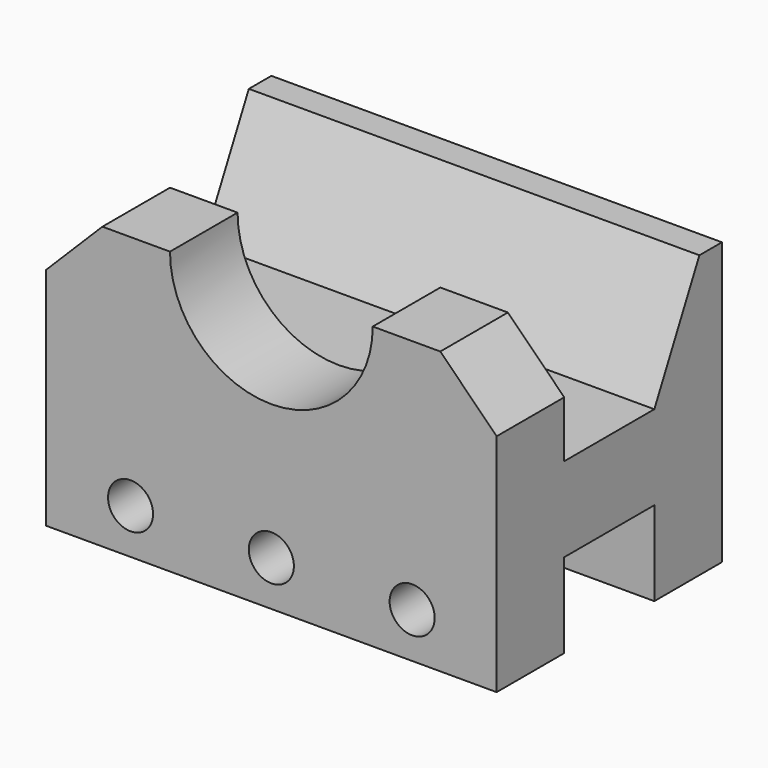
from build123d import *

# Parameters (mm, degrees)
F0_W      = 80
F0_H      = 50
F1_DEPTH  = 50
F2_W      = 20
F2_H      = 15
F3_DEPTH  = 80
F5_DEPTH  = 80
F7_DEPTH  = 25
F8_SIZE   = 10
F9_SIZE   = 10
F10_R     = 4
F11_DEPTH = 50


with BuildPart() as f1:
    # F0 (on Top) → F1 (new body)
    with BuildSketch(Plane.XY):
        with Locations((43.0323862381, 25)):
            Rectangle(F0_W, F0_H)
    extrude(amount=F1_DEPTH)

    # F2 (on face) → F3 (cut)
    with BuildSketch(Plane.YZ.offset(83.0323862381)):
        with Locations((25, 7.5)):
            Rectangle(F2_W, F2_H)
    extrude(amount=-F3_DEPTH, mode=Mode.SUBTRACT)

    # F4 (on face) → F5 (cut)
    with BuildSketch(Plane.YZ.offset(83.0323862381)):
        Polygon((45, 50), (15, 50), (15, 30), (35, 30), align=None)
    extrude(amount=-F5_DEPTH, mode=Mode.SUBTRACT)

    # F6 (on face) → F7 (cut)
    with BuildSketch(Plane.XZ):
        with BuildLine():
            Line((61.0323862381, 50), (25.0323862381, 50))
            ThreePointArc((25.0323862381, 50), (43.0323862381, 32), (61.0323862381, 50))
        make_face()
    extrude(amount=-F7_DEPTH, mode=Mode.SUBTRACT)

    # F8
    f8_edges = [f1.edges().sort_by_distance(p)[0] for p in [
        (83.032386, 7.5, 50),
    ]]
    chamfer(f8_edges, length=F8_SIZE)

    # F9
    f9_edges = [f1.edges().sort_by_distance(p)[0] for p in [
        (3.032386, 7.5, 50),
    ]]
    chamfer(f9_edges, length=F9_SIZE)

    # F10 (on face) → F11 (cut)
    with BuildSketch(Plane.XZ):
        with Locations((18.0323862381, 8)):
            Circle(F10_R)
        with Locations((43.0323862381, 8)):
            Circle(F10_R)
        with Locations((68.0323862381, 8)):
            Circle(F10_R)
    extrude(amount=-F11_DEPTH, mode=Mode.SUBTRACT)


solid = f1.part
